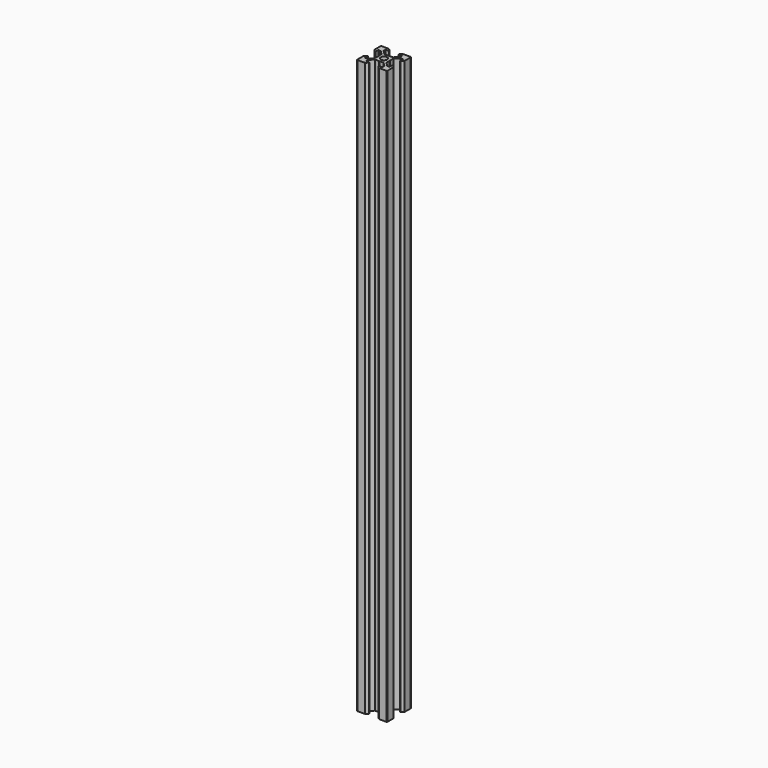
from build123d import *

# Parameters (mm, degrees)
PAD018_DEPTH = 380


with BuildPart() as part:
    # Sketch044 → Pad018 (new body)
    with BuildSketch(Plane(origin=(0, 0, 0), x_dir=(-1, 0, 0), z_dir=(0, 0, -1))):
        with BuildLine():
            Line((-3.69, 0), (-3.9, 0.21))
            Line((-3.9, 0.21), (-3.9, 2.83934))
            Line((-3.9, 2.83934), (-6.56066, 5.5))
            Line((-6.56066, 5.5), (-8.2, 5.5))
            Line((-8.2, 5.5), (-8.2, 3.125))
            Line((-8.2, 3.125), (-8.545, 3.125))
            Line((-8.545, 3.125), (-10, 4.58))
            Line((-10, 9.5), (-10, 4.58))
            ThreePointArc((-9.5, 10), (-9.853553, 9.853553), (-10, 9.5))
            Line((-9.5, 10), (-4.58, 10))
            Line((-3.125, 8.545), (-4.58, 10))
            Line((-3.125, 8.2), (-3.125, 8.545))
            Line((-5.5, 8.2), (-3.125, 8.2))
            Line((-5.5, 6.56066), (-5.5, 8.2))
            Line((-2.83934, 3.9), (-5.5, 6.56066))
            Line((-0.21, 3.9), (-2.83934, 3.9))
            Line((0, 3.69), (-0.21, 3.9))
            Line((0, 3.69), (0.21, 3.9))
            Line((0.21, 3.9), (2.83934, 3.9))
            Line((2.83934, 3.9), (5.5, 6.56066))
            Line((5.5, 6.56066), (5.5, 8.2))
            Line((5.5, 8.2), (3.125, 8.2))
            Line((3.125, 8.2), (3.125, 8.545))
            Line((3.125, 8.545), (4.58, 10))
            Line((4.58, 10), (9.5, 10))
            ThreePointArc((10, 9.5), (9.853553, 9.853553), (9.5, 10))
            Line((10, 9.5), (10, 4.58))
            Line((8.545, 3.125), (10, 4.58))
            Line((8.2, 3.125), (8.545, 3.125))
            Line((8.2, 5.5), (8.2, 3.125))
            Line((6.56066, 5.5), (8.2, 5.5))
            Line((3.9, 2.83934), (6.56066, 5.5))
            Line((3.9, 0.21), (3.9, 2.83934))
            Line((3.69, 0), (3.9, 0.21))
            Line((3.69, 0), (3.9, -0.21))
            Line((3.9, -0.21), (3.9, -2.83934))
            Line((3.9, -2.83934), (6.56066, -5.5))
            Line((6.56066, -5.5), (8.2, -5.5))
            Line((8.2, -5.5), (8.2, -3.125))
            Line((8.2, -3.125), (8.545, -3.125))
            Line((8.545, -3.125), (10, -4.58))
            Line((10, -4.58), (10, -9.5))
            ThreePointArc((9.5, -10), (9.853553, -9.853553), (10, -9.5))
            Line((4.58, -10), (9.5, -10))
            Line((3.125, -8.545), (4.58, -10))
            Line((3.125, -8.2), (3.125, -8.545))
            Line((5.5, -8.2), (3.125, -8.2))
            Line((5.5, -6.56066), (5.5, -8.2))
            Line((2.83934, -3.9), (5.5, -6.56066))
            Line((0.21, -3.9), (2.83934, -3.9))
            Line((0, -3.69), (0.21, -3.9))
            Line((0, -3.69), (-0.21, -3.9))
            Line((-0.21, -3.9), (-2.83934, -3.9))
            Line((-2.83934, -3.9), (-5.5, -6.56066))
            Line((-5.5, -6.56066), (-5.5, -8.2))
            Line((-5.5, -8.2), (-3.125, -8.2))
            Line((-3.125, -8.2), (-3.125, -8.545))
            Line((-3.125, -8.545), (-4.58, -10))
            Line((-9.5, -10), (-4.58, -10))
            ThreePointArc((-10, -9.5), (-9.853553, -9.853553), (-9.5, -10))
            Line((-10, -4.58), (-10, -9.5))
            Line((-8.545, -3.125), (-10, -4.58))
            Line((-8.2, -3.125), (-8.545, -3.125))
            Line((-8.2, -5.5), (-8.2, -3.125))
            Line((-6.56066, -5.5), (-8.2, -5.5))
            Line((-3.9, -2.83934), (-6.56066, -5.5))
            Line((-3.9, -0.21), (-3.9, -2.83934))
            Line((-3.69, 0), (-3.9, -0.21))
        make_face()
        with BuildLine():
            ThreePointArc((-2.1, 0), (0, -2.1), (2.1, 0))
            ThreePointArc((2.1, 0), (0, 2.1), (-2.1, 0))
        make_face(mode=Mode.SUBTRACT)
    extrude(amount=-PAD018_DEPTH)


solid = part.part
